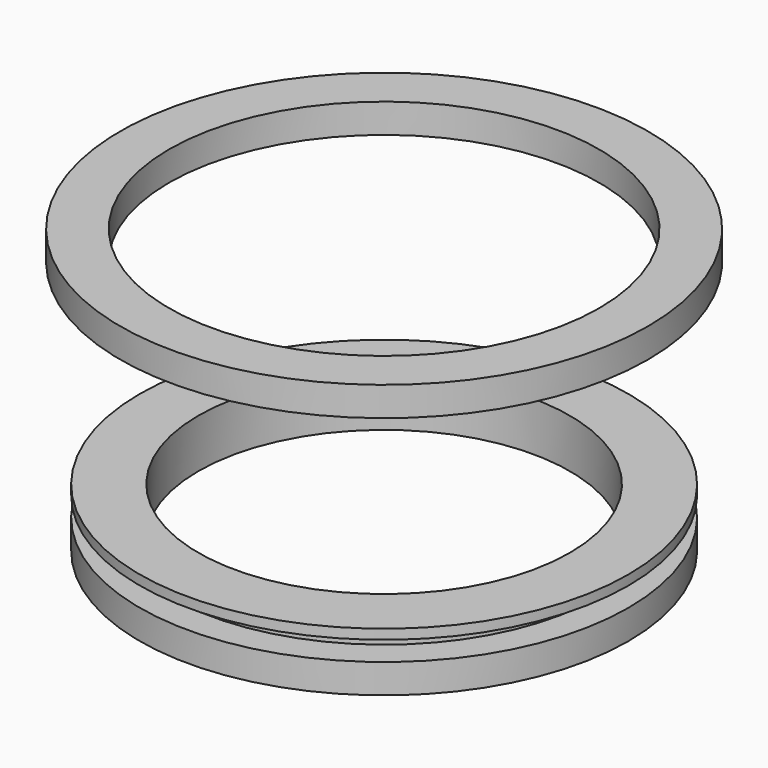
from build123d import *

# Parameters (mm, degrees)
F0_R      = 22
F0_R_2    = 19
F1_DEPTH  = 5
F2_R      = 25
F2_R_2    = 22
F3_DEPTH  = 1
F4_R      = 25
F4_R_2    = 22
F4_R_3    = 21
F5_DEPTH  = 1
F6_DEPTH  = 2
F7_R      = 22.5
F8_DEPTH  = 4
F10_R     = 27
F10_R_2   = 22
F11_DEPTH = 3


with BuildPart() as f1:
    # F0 (on Top) → F1 (new body)
    with BuildSketch(Plane.XY):
        Circle(F0_R)
        Circle(F0_R_2, mode=Mode.SUBTRACT)
    extrude(amount=F1_DEPTH)

    # F2 (on face) → F3 (join)
    with BuildSketch(Plane.XY.offset(5)):
        Circle(F2_R)
        Circle(F2_R_2, mode=Mode.SUBTRACT)
    extrude(amount=-F3_DEPTH)

    # F4 (on face) → F5 (join)
    with BuildSketch(Plane(origin=(0, 0, 0), x_dir=(1, 0, 0), z_dir=(0, 0, -1))):
        Circle(F4_R)
        Circle(F4_R_2, mode=Mode.SUBTRACT)
        Circle(F4_R_2)
        Circle(F4_R_3, mode=Mode.SUBTRACT)
    extrude(amount=F5_DEPTH)

    # F4 (on face) → F6 (join)
    with BuildSketch(Plane(origin=(0, 0, 0), x_dir=(1, 0, 0), z_dir=(0, 0, -1))):
        Circle(F4_R)
        Circle(F4_R_2, mode=Mode.SUBTRACT)
    extrude(amount=-F6_DEPTH)

    # F7 (on face) → F8 (cut)
    with BuildSketch(Plane(origin=(0, 0, 0), x_dir=(1, 0, 0), z_dir=(0, 0, -1))):
        Circle(F7_R)
    extrude(amount=F8_DEPTH, mode=Mode.SUBTRACT)


with BuildPart() as f11:
    # F10 (on offset) → F11 (new body)
    with BuildSketch(Plane.XY.offset(25)):
        Circle(F10_R)
        Circle(F10_R_2, mode=Mode.SUBTRACT)
    extrude(amount=F11_DEPTH)


solid = Compound([f1.part, f11.part])
